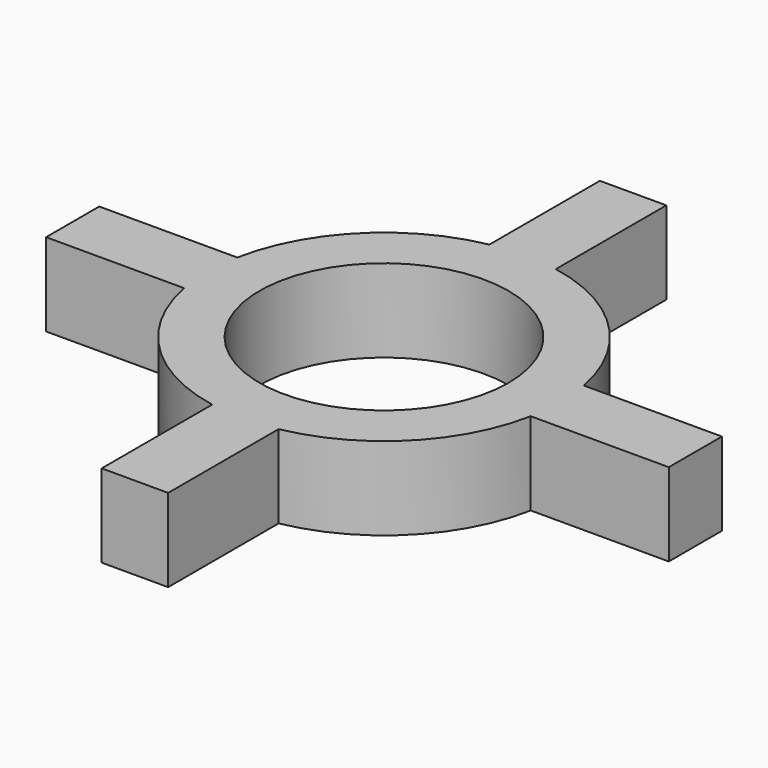
from build123d import *

# Parameters (mm, degrees)
F0_R     = 3
F1_DEPTH = 2


with BuildPart() as f1:
    # F0 (on Top) → F1 (new body)
    with BuildSketch(Plane.XY):
        with BuildLine():
            Line((0, -12.255436), (-1.6, -12.255436))
            Line((-1.6, -12.255436), (-1.6, -15.58141))
            ThreePointArc((-1.6, -15.58141), (-3.805204, -16.750233), (-4.974027, -18.955436))
            Line((-4.974027, -18.955436), (-8.3, -18.955436))
            Line((-8.3, -18.955436), (-8.3, -20.555436))
            Line((-8.3, -20.555436), (-4.974027, -20.555436))
            ThreePointArc((-4.974027, -20.555436), (-3.805204, -22.76064), (-1.6, -23.929463))
            Line((-1.6, -23.929463), (-1.6, -27.255436))
            Line((-1.6, -27.255436), (0, -27.255436))
            Line((0, -27.255436), (0, -23.929463))
            ThreePointArc((0, -23.929463), (2.205204, -22.76064), (3.374027, -20.555436))
            Line((3.374027, -20.555436), (6.7, -20.555436))
            Line((6.7, -20.555436), (6.7, -18.955436))
            Line((6.7, -18.955436), (3.374027, -18.955436))
            ThreePointArc((3.374027, -18.955436), (2.205204, -16.750233), (0, -15.58141))
            Line((0, -15.58141), (0, -12.255436))
        make_face()
        with Locations((-0.8, -19.755436)):
            Circle(F0_R, mode=Mode.SUBTRACT)
    extrude(amount=F1_DEPTH)


solid = f1.part
